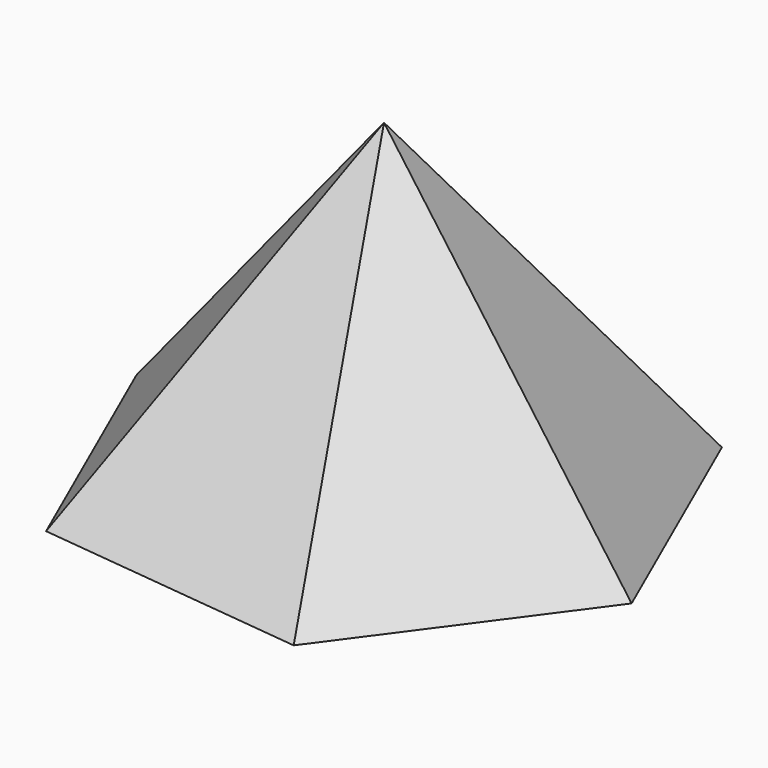
from build123d import *


with BuildPart() as f3:
    # F0 (on Top) → F3 section 0
    with BuildSketch(Plane.XY, mode=Mode.PRIVATE) as f3_s0:
        Polygon((72.680452, 98.945927), (-49.349461, 112.416081), (-122.029912, 13.470154), (-72.680452, -98.945927), (49.349461, -112.416081), (122.029912, -13.470154), align=None)
    loft([f3_s0.sketch, Vertex(0, 0, 145.034)])


solid = f3.part
